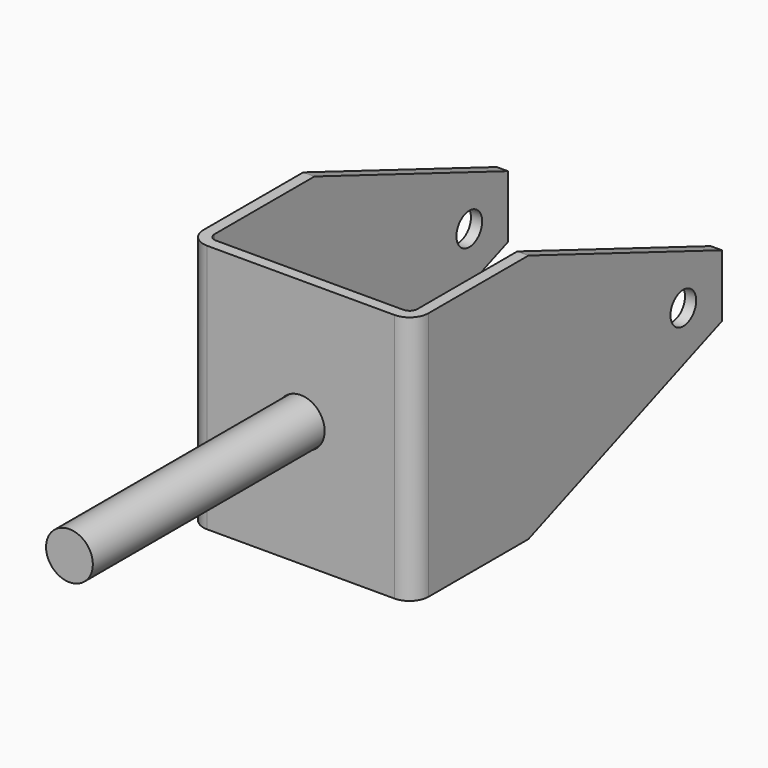
from build123d import *

# Parameters (mm, degrees)
F0_R     = 9.525
F1_DEPTH = 63.5
F2_W     = 4.55422
F2_H     = 101.6
F3_DEPTH = 38.1
F5_DEPTH = 50.8
F6_R     = 6.548438
F7_DEPTH = 91.65944
F8_R     = 9.7155
F8_R_2   = 9.525
F9_DEPTH = 156.95522


with BuildPart() as f1:
    # F0 (on Front) → F1 (new body, symmetric)
    with BuildSketch(Plane.XZ):
        Circle(F0_R)
    extrude(amount=F1_DEPTH, both=True)


with BuildPart() as f3:
    # F2 (on Right) → F3 (new body, symmetric)
    with BuildSketch(Plane.YZ):
        with Locations((56.46039, 0)):
            Rectangle(F2_W, F2_H)
    extrude(amount=F3_DEPTH, both=True)

    # F4 (on Top) → F5 (join, symmetric)
    with BuildSketch(Plane.XY):
        with BuildLine():
            Line((41.275, 211.1375), (41.275, 61.9125))
            ThreePointArc((41.275, 61.9125), (40.345064, 59.667436), (38.1, 58.7375))
            Line((38.1, 58.7375), (38.1, 54.18328))
            ThreePointArc((38.1, 54.18328), (43.565384, 56.447116), (45.82922, 61.9125))
            Line((45.82922, 61.9125), (45.82922, 211.1375))
            Line((45.82922, 211.1375), (41.275, 211.1375))
        make_face()
        with BuildLine():
            Line((-41.275, 61.9125), (-41.275, 211.1375))
            Line((-41.275, 211.1375), (-45.82922, 211.1375))
            Line((-45.82922, 211.1375), (-45.82922, 61.9125))
            ThreePointArc((-45.82922, 61.9125), (-43.565384, 56.447116), (-38.1, 54.18328))
            Line((-38.1, 54.18328), (-38.1, 58.7375))
            ThreePointArc((-38.1, 58.7375), (-40.345064, 59.667436), (-41.275, 61.9125))
        make_face()
    extrude(amount=F5_DEPTH, both=True)

    # F6 (on face) → F7 (cut, through all)
    with BuildSketch(Plane.YZ.offset(45.82922)):
        Polygon((211.1375, 12.7), (211.1375, 50.8), (112.7125, 50.8), align=None)
        Polygon((211.1375, -50.8), (211.1375, -12.7), (112.7125, -50.8), align=None)
        with Locations((191.492187, 0)):
            Circle(F6_R)
    extrude(amount=-F7_DEPTH, mode=Mode.SUBTRACT)

    # F8 (on face) → F9 (cut, through all)
    with BuildSketch(Plane.XZ.offset(-54.18328)):
        Circle(F8_R)
        Circle(F8_R_2, mode=Mode.SUBTRACT)
    extrude(amount=-F9_DEPTH, mode=Mode.SUBTRACT)


solid = Compound([f1.part, f3.part])
